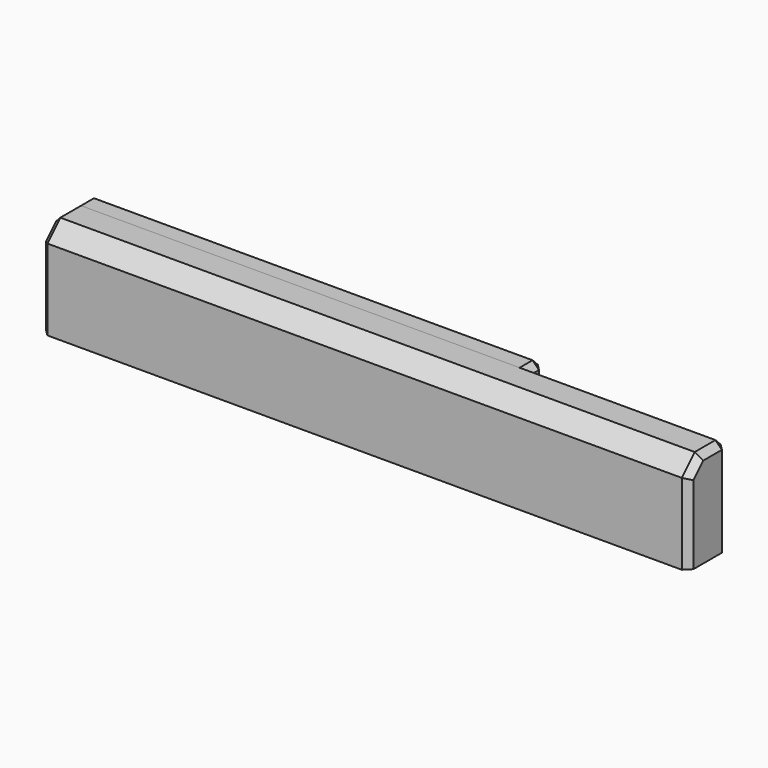
from build123d import *

# Parameters (mm, degrees)
BOX_W           = 200
BOX_H           = 15
BOX_DEPTH       = 30
CHAMFER_SIZE    = 5
CHAMFER001_SIZE = 2
POCKET_DEPTH    = 10
BOX001_W        = 63
BOX001_H        = 20
BOX001_DEPTH    = 30
CHAMFER002_SIZE = 5
CHAMFER003_SIZE = 2
POCKET001_DEPTH = 13
BOX002_W        = 139.5
BOX002_H        = 20
BOX002_DEPTH    = 30
CHAMFER004_SIZE = 5
CHAMFER005_SIZE = 2
BOX003_W        = 200
BOX003_H        = 15
BOX003_DEPTH    = 30
CHAMFER006_SIZE = 5
CHAMFER007_SIZE = 2


with BuildPart() as body:
    # Box → Box (new body)
    with BuildSketch(Plane.XY):
        with Locations((100, 7.5)):
            Rectangle(BOX_W, BOX_H)
    extrude(amount=BOX_DEPTH)

    # Chamfer
    chamfer_edges = [body.edges().sort_by_distance(p)[0] for p in [
        (100, 0, 30),
    ]]
    chamfer(chamfer_edges, length=CHAMFER_SIZE)

    # Chamfer001
    chamfer001_edges = [body.edges().sort_by_distance(p)[0] for p in [
        (0, 10, 30),
        (200, 10, 30),
        (100, 15, 30),
        (200, 15, 15),
        (0, 15, 15),
        (0, 0, 12.5),
        (200, 0, 12.5),
        (0, 2.5, 27.5),
        (200, 2.5, 27.5),
    ]]
    chamfer(chamfer001_edges, length=CHAMFER001_SIZE)

    # Sketch (on Face1 of Chamfer001) → Pocket (cut, symmetric)
    with BuildSketch(Plane(origin=(0, 0, 0), x_dir=(0, -1, 0), z_dir=(-1, 0, 0))):
        Polygon((-5, 0), (0, 0), (0, 7), align=None)
    extrude(amount=POCKET_DEPTH, both=True, mode=Mode.SUBTRACT)


with BuildPart() as obj1:
    # Box001 → Box001 (new body)
    with BuildSketch(Plane.XY):
        with Locations((31.5, 10)):
            Rectangle(BOX001_W, BOX001_H)
    extrude(amount=BOX001_DEPTH)

    # Chamfer002
    chamfer002_edges = [obj1.edges().sort_by_distance(p)[0] for p in [
        (31.5, 0, 30),
    ]]
    chamfer(chamfer002_edges, length=CHAMFER002_SIZE)

    # Chamfer003
    chamfer003_edges = [obj1.edges().sort_by_distance(p)[0] for p in [
        (0, 12.5, 30),
        (63, 12.5, 30),
        (31.5, 20, 30),
        (63, 20, 15),
        (0, 20, 15),
        (0, 0, 12.5),
        (63, 0, 12.5),
        (0, 2.5, 27.5),
        (63, 2.5, 27.5),
    ]]
    chamfer(chamfer003_edges, length=CHAMFER003_SIZE)

    # Sketch001 (on Face1 of Chamfer003) → Pocket001 (cut)
    with BuildSketch(Plane(origin=(0, 0, 0), x_dir=(0, -1, 0), z_dir=(-1, 0, 0))):
        Polygon((-5, 0), (0, 0), (0, 7), align=None)
    extrude(amount=-POCKET001_DEPTH, mode=Mode.SUBTRACT)


with BuildPart() as obj2:
    # Box002 → Box002 (new body)
    with BuildSketch(Plane.XY):
        with Locations((69.75, 10)):
            Rectangle(BOX002_W, BOX002_H)
    extrude(amount=BOX002_DEPTH)

    # Chamfer004
    chamfer004_edges = [obj2.edges().sort_by_distance(p)[0] for p in [
        (69.75, 0, 30),
    ]]
    chamfer(chamfer004_edges, length=CHAMFER004_SIZE)

    # Chamfer005
    chamfer005_edges = [obj2.edges().sort_by_distance(p)[0] for p in [
        (0, 12.5, 30),
        (139.5, 12.5, 30),
        (69.75, 20, 30),
        (139.5, 20, 15),
        (0, 20, 15),
        (0, 0, 12.5),
        (139.5, 0, 12.5),
        (0, 2.5, 27.5),
        (139.5, 2.5, 27.5),
    ]]
    chamfer(chamfer005_edges, length=CHAMFER005_SIZE)


with BuildPart() as obj3:
    # Box003 → Box003 (new body)
    with BuildSketch(Plane.XY):
        with Locations((100, 7.5)):
            Rectangle(BOX003_W, BOX003_H)
    extrude(amount=BOX003_DEPTH)

    # Chamfer006
    chamfer006_edges = [obj3.edges().sort_by_distance(p)[0] for p in [
        (100, 0, 30),
    ]]
    chamfer(chamfer006_edges, length=CHAMFER006_SIZE)

    # Chamfer007
    chamfer007_edges = [obj3.edges().sort_by_distance(p)[0] for p in [
        (0, 10, 30),
        (200, 10, 30),
        (100, 15, 30),
        (200, 15, 15),
        (0, 15, 15),
        (0, 0, 12.5),
        (200, 0, 12.5),
        (0, 2.5, 27.5),
        (200, 2.5, 27.5),
    ]]
    chamfer(chamfer007_edges, length=CHAMFER007_SIZE)


solid = Compound([body.part, obj1.part, obj2.part, obj3.part])
